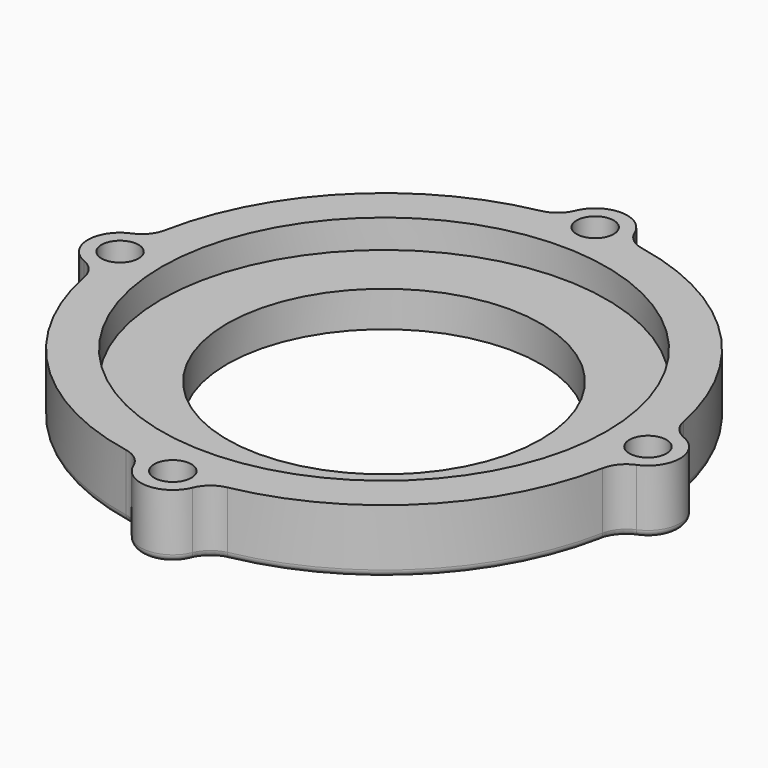
from build123d import *

# Parameters (mm, degrees)
SKETCH_R      = 22
SKETCH_R_2    = 2.6
PAD_DEPTH     = 9
SKETCH001_R   = 31.2
SKETCH001_R_2 = 22
POCKET_DEPTH  = 4
FILLET_R      = 4
FILLET001_R   = 1


with BuildPart() as part:
    # Sketch → Pad (new body)
    with BuildSketch(Plane.XY):
        with BuildLine():
            ThreePointArc((-4.5, 36.725332), (-26.162951, 26.162951), (-36.725332, 4.5))
            Line((-37.000025, 4.5), (-36.725332, 4.5))
            ThreePointArc((-37.000025, 4.5), (-41.5, 0), (-37.000025, -4.5))
            Line((-37.000025, -4.5), (-36.725332, -4.5))
            ThreePointArc((-36.725332, -4.5), (-26.162951, -26.162951), (-4.5, -36.725332))
            Line((-4.5, -36.725332), (-4.5, -37))
            ThreePointArc((-4.5, -37), (0, -41.5), (4.5, -37.000001))
            Line((4.5, -36.725332), (4.5, -37.000001))
            ThreePointArc((4.5, -36.725332), (26.162951, -26.162951), (36.725332, -4.5))
            Line((36.725332, -4.5), (37.000003, -4.5))
            ThreePointArc((37.000003, -4.5), (41.5, 0), (37.000003, 4.5))
            Line((36.725332, 4.5), (37.000003, 4.5))
            ThreePointArc((36.725332, 4.5), (26.162951, 26.162951), (4.5, 36.725332))
            Line((4.5, 36.999999), (4.5, 36.725332))
            ThreePointArc((4.5, 36.999999), (1.1e-05, 41.5), (-4.5, 37.000021))
            Line((-4.5, 37.000021), (-4.5, 36.725332))
        make_face()
        Circle(SKETCH_R, mode=Mode.SUBTRACT)
        with Locations((0, 37)):
            Circle(SKETCH_R_2, mode=Mode.SUBTRACT)
        with Locations((0, -37)):
            Circle(SKETCH_R_2, mode=Mode.SUBTRACT)
        with Locations((-37, 0)):
            Circle(SKETCH_R_2, mode=Mode.SUBTRACT)
        with Locations((37, 0)):
            Circle(SKETCH_R_2, mode=Mode.SUBTRACT)
    extrude(amount=PAD_DEPTH)

    # Sketch001 → Pocket (cut)
    with BuildSketch(Plane.XY.offset(9)):
        Circle(SKETCH001_R)
        Circle(SKETCH001_R_2, mode=Mode.SUBTRACT)
    extrude(amount=-POCKET_DEPTH, mode=Mode.SUBTRACT)

    # Fillet
    fillet_edges = [part.edges().sort_by_distance(p)[0] for p in [
        (-36.725332, 4.5, 4.5),
        (-4.5, 36.725332, 4.5),
        (4.5, 36.725332, 4.5),
        (36.725332, 4.5, 4.5),
        (36.725332, -4.5, 4.5),
        (4.5, -36.725332, 4.5),
        (-4.5, -36.725332, 4.5),
        (-36.725332, -4.5, 4.5),
    ]]
    fillet(fillet_edges, radius=FILLET_R)

    # Fillet001
    fillet001_edges = [part.edges().sort_by_distance(p)[0] for p in [
        (-5.323601, 37.145487, 0),
        (-26.162951, 26.162951, 0),
        (0, 41.5, 0),
        (5.323601, 37.145487, 0),
        (26.162951, 26.162951, 0),
        (37.145487, 5.323601, 0),
        (41.5, 0, 0),
        (37.145487, -5.323601, 0),
        (26.162951, -26.162951, 0),
        (5.323601, -37.145487, 0),
        (0, -41.5, 0),
        (-5.323601, -37.145487, 0),
        (-26.162951, -26.162951, 0),
        (-37.145487, -5.323601, 0),
        (-41.5, 0, 0),
        (-37.145487, 5.323601, 0),
    ]]
    fillet(fillet001_edges, radius=FILLET001_R)


solid = part.part
